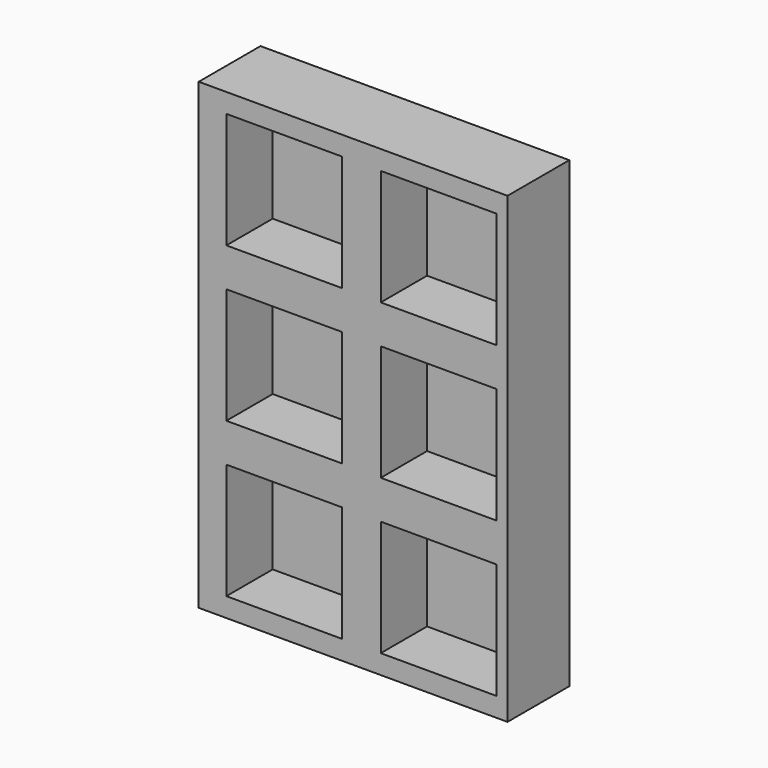
from build123d import *

# Parameters (mm, degrees)
F0_W     = 101.6
F0_H     = 152.4
F1_DEPTH = 25.4
F2_W     = 38.1
F2_H     = 38.1
F3_DEPTH = 19.05


with BuildPart() as f1:
    # F0 (on Front) → F1 (new body)
    with BuildSketch(Plane.XZ):
        with Locations((-2.74208, 0)):
            Rectangle(F0_W, F0_H)
    extrude(amount=F1_DEPTH)

    # F2 (on face) → F3 (cut)
    with BuildSketch(Plane.XZ.offset(25.4)):
        with Locations((-25.39888, 50.8)):
            Rectangle(F2_W, F2_H)
        with Locations((25.39888, 50.8)):
            Rectangle(F2_W, F2_H)
        with Locations((-25.39888, 0)):
            Rectangle(F2_W, F2_H)
        with Locations((25.39888, 0)):
            Rectangle(F2_W, F2_H)
        with Locations((-25.39888, -50.8)):
            Rectangle(F2_W, F2_H)
        with Locations((25.39888, -50.8)):
            Rectangle(F2_W, F2_H)
    extrude(amount=-F3_DEPTH, mode=Mode.SUBTRACT)


solid = f1.part
